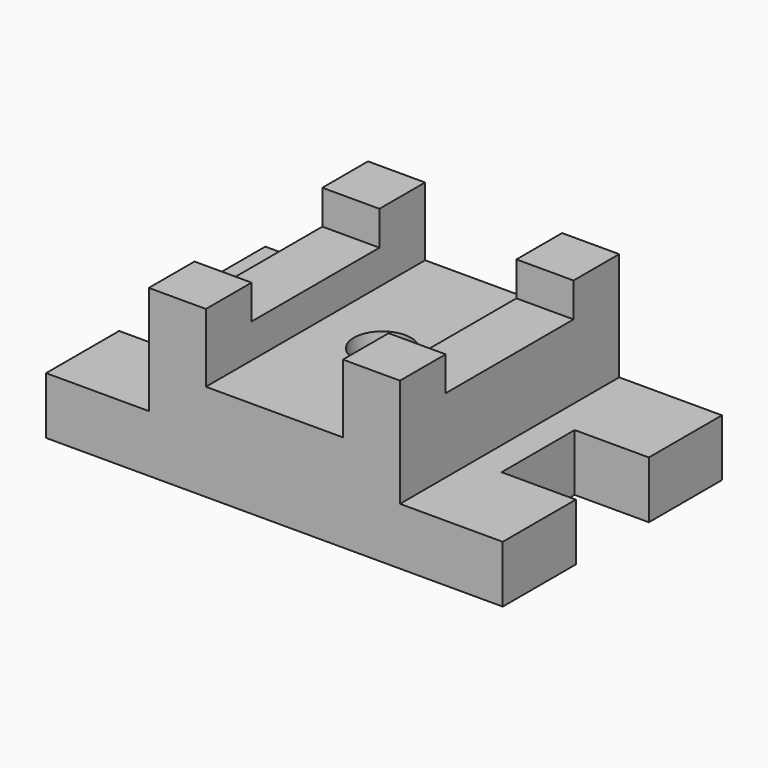
from build123d import *

# Parameters (mm, degrees)
F1_DEPTH  = 31.75
F2_W      = 31.75
F2_H      = 152.4
F2_W_2    = 76.2
F3_DEPTH  = 22.225
F4_W      = 31.75
F4_H      = 152.4
F5_DEPTH  = 19.05
F6_W      = 31.75
F6_H      = 31.75
F7_DEPTH  = 19.05
F8_W      = 31.75
F8_H      = 31.75
F9_DEPTH  = 19.05
F10_R     = 15.875
F11_DEPTH = 92.075


with BuildPart() as f1:
    # F0 (on Top) → F1 (new body)
    with BuildSketch(Plane.XY):
        Polygon((127.8939653635, 76.2), (-126.1060346365, 76.2), (-126.1060346365, 25.4), (-84.8310346365, 25.4), (-84.8310346365, -25.4), (-126.1060346365, -25.4), (-126.1060346365, -76.2), (127.8939653635, -76.2), (127.8939653635, -25.4), (86.6189653635, -25.4), (86.6189653635, 25.4), (127.8939653635, 25.4), align=None)
    extrude(amount=F1_DEPTH)

    # F2 (on face) → F3 (join)
    with BuildSketch(Plane.XY.offset(31.75)):
        with Locations((-53.0810346365, 0)):
            Rectangle(F2_W, F2_H)
        with Locations((0.8939653635, 0)):
            Rectangle(F2_W_2, F2_H)
        with Locations((54.8689653635, 0)):
            Rectangle(F2_W, F2_H)
    extrude(amount=F3_DEPTH)

    # F4 (on face) → F5 (join)
    with BuildSketch(Plane.XY.offset(53.975)):
        with Locations((-53.0810346365, 0)):
            Rectangle(F4_W, F4_H)
        with Locations((54.8689653635, 0)):
            Rectangle(F4_W, F4_H)
    extrude(amount=F5_DEPTH)

    # F6 (on face) → F7 (join)
    with BuildSketch(Plane.XY.offset(73.025)):
        with Locations((-53.0810346365, 60.325)):
            Rectangle(F6_W, F6_H)
        with Locations((-53.0810346365, -60.325)):
            Rectangle(F6_W, F6_H)
    extrude(amount=F7_DEPTH)

    # F8 (on face) → F9 (join)
    with BuildSketch(Plane.XY.offset(73.025)):
        with Locations((54.8689653635, 60.325)):
            Rectangle(F8_W, F8_H)
        with Locations((54.8689653635, -60.325)):
            Rectangle(F8_W, F8_H)
    extrude(amount=F9_DEPTH)

    # F10 (on face) → F11 (cut)
    with BuildSketch(Plane.XY.offset(53.975)):
        Circle(F10_R)
    extrude(amount=-F11_DEPTH, mode=Mode.SUBTRACT)


with BuildPart() as f1_1:
    # F12: moved
    add(f1.part)


solid = f1_1.part
